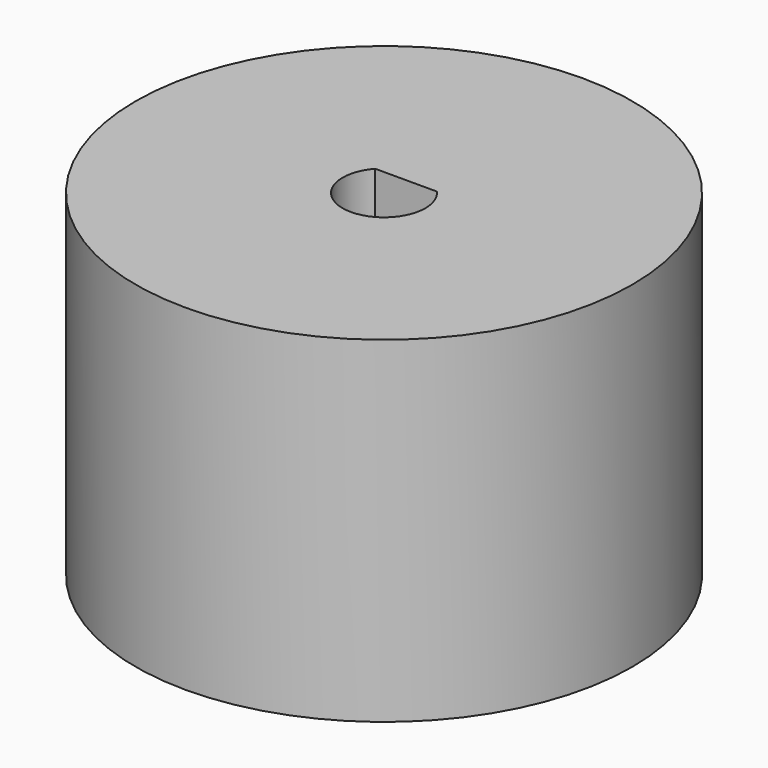
from build123d import *

# Parameters (mm, degrees)
F0_R     = 15
F1_DEPTH = 20.32
F2_DEPTH = 20.32


with BuildPart() as f1:
    # F0 (on Top) → F1 (new body)
    with BuildSketch(Plane.XY):
        Circle(F0_R)
        with BuildLine():
            ThreePointArc((1.863643, 1.666384), (2.335499, 0.891878), (2.5, 0))
            ThreePointArc((2.5, 0), (1.767767, -1.767767), (0, -2.5))
            ThreePointArc((0, -2.5), (-2.2821, -1.020794), (-1.863643, 1.666384))
            ThreePointArc((-1.863643, 1.666384), (0, 2.5), (1.863643, 1.666384))
        make_face(mode=Mode.SUBTRACT)
    extrude(amount=F1_DEPTH)

    # F0 (on Top) → F2 (join)
    with BuildSketch(Plane.XY):
        with BuildLine():
            Line((0, 1.666384), (1.863643, 1.666384))
            ThreePointArc((1.863643, 1.666384), (0, 2.5), (-1.863643, 1.666384))
            Line((-1.863643, 1.666384), (0, 1.666384))
        make_face()
    extrude(amount=F2_DEPTH)


solid = f1.part
